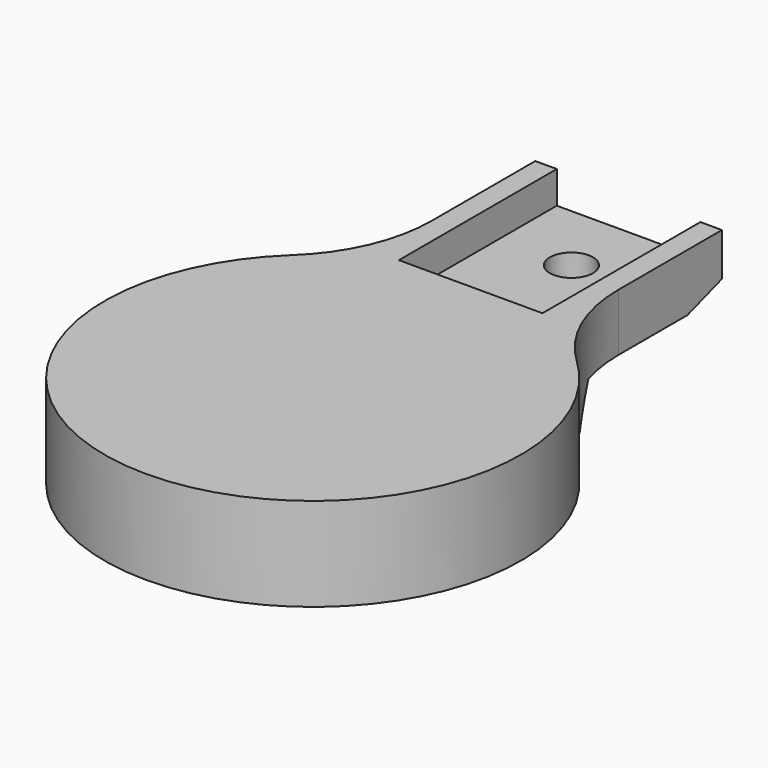
from build123d import *

# Parameters (mm, degrees)
PAD001_DEPTH         = 13
SKETCH004_W          = 27.5
SKETCH004_H          = 20
POCKET_DEPTH         = 4.5
SKETCH005_R          = 3
HOLE_DEPTH           = 25
POCKET001_DEPTH      = 42.001
POCKET001_DEPTH_BACK = 16.001


with BuildPart() as part:
    # Sketch003 (on CopyRevolution) → Pad001 (new body)
    with BuildSketch(Plane(origin=(0, 0, 100), x_dir=(0, -1, 0), z_dir=(0, 0, 1))):
        with BuildLine():
            Line((-55, -13), (-55, 13))
            Line((-55, 13), (-37, 13))
            ThreePointArc((-37, 13), (-28.354779, 14.789176), (-21.129846, 19.862769))
            ThreePointArc((-21.129846, -19.862769), (29, 0), (-21.129846, 19.862769))
            ThreePointArc((-21.129846, -19.862769), (-28.354779, -14.789176), (-37, -13))
            Line((-37, -13), (-55, -13))
        make_face()
    extrude(amount=PAD001_DEPTH)

    # Sketch004 (on Face8 of Pad001) → Pocket (cut)
    with BuildSketch(Plane(origin=(0, 0, 113), x_dir=(0, -1, 0), z_dir=(0, 0, 1))):
        with Locations((-41.25, 0)):
            Rectangle(SKETCH004_W, SKETCH004_H)
    extrude(amount=-POCKET_DEPTH, mode=Mode.SUBTRACT)

    # Sketch005 (on Face12 of Pocket) → Hole (cut)
    with BuildSketch(Plane(origin=(0, 0, 108.5), x_dir=(0, -1, 0), z_dir=(0, 0, 1))):
        with Locations((-45.05, 0)):
            Circle(SKETCH005_R)
    extrude(amount=-HOLE_DEPTH, mode=Mode.SUBTRACT)

    # Sketch006 (on Face8 of Hole) → Pocket001 (cut, two sides)
    with BuildSketch(Plane.YZ.offset(13)) as pocket001_sk:
        Polygon((55, 107), (49, 105), (30.5, 105), (27.5, 100), (55, 100), align=None)
    extrude(amount=-POCKET001_DEPTH, mode=Mode.SUBTRACT)
    extrude(pocket001_sk.sketch, amount=POCKET001_DEPTH_BACK, mode=Mode.SUBTRACT)


solid = part.part
